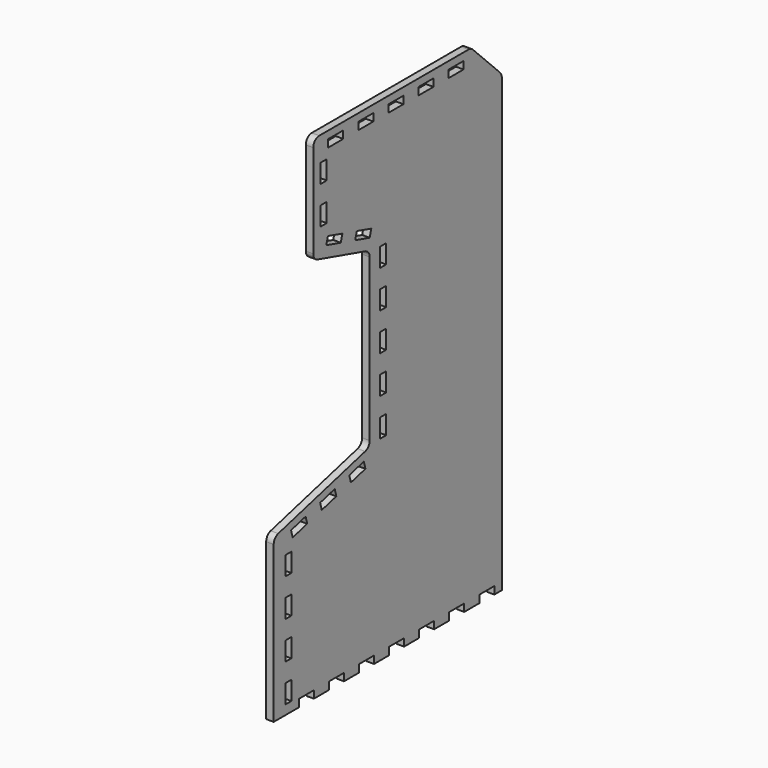
from build123d import *

# Parameters (mm, degrees)
F1_DEPTH  = 4
F2_R      = 4
F3_W      = 4
F3_H      = 10
F4_DEPTH  = 4
F5_W      = 4
F5_H      = 10
F5_W_2    = 10
F5_H_2    = 4
F6_DEPTH  = 4
F8_DEPTH  = 4
F9_R      = 4
F10_W     = 10
F10_H     = 4
F10_W_2   = 4
F10_H_2   = 10
F11_DEPTH = 25
F12_R     = 4


with BuildPart() as f1:
    # F0 (on Right) → F1 (new body)
    with BuildSketch(Plane.YZ):
        Polygon((0, 92.128), (0, 0), (-63.825185854, -16.522066811), (-63.825185854, -102.781066811), (87.919814146, -102.781066811), (87.919814146, 92.128), align=None)
        Polygon((-52.2425177801, -17.65557521), (-42.5616207767, -15.149535863), (-41.5592050378, -19.0218946644), (-51.2401020413, -21.5279340114), align=None, mode=Mode.SUBTRACT)
        Polygon((-32.8807237732, -12.643496516), (-23.1998267698, -10.1374571689), (-22.197411031, -14.0098159703), (-31.8783080344, -16.5158553174), align=None, mode=Mode.SUBTRACT)
        Polygon((-13.5189297663, -7.6314178219), (-3.8380327629, -5.1253784749), (-2.8356170241, -8.9977372763), (-12.5165140275, -11.5037766233), align=None, mode=Mode.SUBTRACT)
    extrude(amount=F1_DEPTH)

    # F2
    f2_edges = [f1.edges().sort_by_distance(p)[0] for p in [
        (2, -63.825186, -16.522067),
    ]]
    fillet(f2_edges, radius=F2_R)

    # F3 (on face) → F4 (cut)
    with BuildSketch(Plane.YZ.offset(4)):
        with Locations((9.0024157388, 86.1276411986)):
            Rectangle(F3_W, F3_H)
        with Locations((9.0024157388, 66.1276411986)):
            Rectangle(F3_W, F3_H)
        with Locations((9.0024157388, 46.1276411986)):
            Rectangle(F3_W, F3_H)
        with Locations((9.0024157388, 26.1276411986)):
            Rectangle(F3_W, F3_H)
        with Locations((9.0024157388, 6.1276411986)):
            Rectangle(F3_W, F3_H)
    extrude(amount=-F4_DEPTH, mode=Mode.SUBTRACT)

    # F5 (on face) → F6 (cut)
    with BuildSketch(Plane.YZ.offset(4)):
        with Locations((-54.080550543, -32.7809536849)):
            Rectangle(F5_W, F5_H)
        with Locations((-54.080550543, -52.7809536849)):
            Rectangle(F5_W, F5_H)
        with Locations((-54.080550543, -72.7809536849)):
            Rectangle(F5_W, F5_H)
        with Locations((-54.080550543, -92.7809536849)):
            Rectangle(F5_W, F5_H)
        with Locations((-2.080550543, -100.781066811)):
            Rectangle(F5_W_2, F5_H_2)
        with Locations((17.919449457, -100.781066811)):
            Rectangle(F5_W_2, F5_H_2)
        with Locations((37.919449457, -100.781066811)):
            Rectangle(F5_W_2, F5_H_2)
        with Locations((-22.080550543, -100.781066811)):
            Rectangle(F5_W_2, F5_H_2)
        with Locations((-42.080550543, -100.781066811)):
            Rectangle(F5_W_2, F5_H_2)
        with Locations((57.919449457, -100.781066811)):
            Rectangle(F5_W_2, F5_H_2)
        with Locations((77.919449457, -100.781066811)):
            Rectangle(F5_W_2, F5_H_2)
    extrude(amount=-F6_DEPTH, mode=Mode.SUBTRACT)

    # F7 (on face) → F8 (join)
    with BuildSketch(Plane.YZ.offset(4)):
        Polygon((-37.5059572495, 102.8192660989), (0, 92.128), (87.919814146, 92.128), (87.919814146, 159.5652660989), (-37.5059572495, 159.5652660989), align=None)
    extrude(amount=-F8_DEPTH)

    # F9
    f9_edges = [f1.edges().sort_by_distance(p)[0] for p in [
        (2, -37.505957, 159.565266),
        (2, 87.919814, 159.565266),
        (2, -37.505957, 102.819266),
    ]]
    fillet(f9_edges, radius=F9_R)

    # F10 (on face) → F11 (cut)
    with BuildSketch(Plane(origin=(0, 0, 0), x_dir=(0, -1, 0), z_dir=(-1, 0, 0))):
        Polygon((-1.0965401127, 101.9704806816), (0, 98.1237158355), (9.6169121153, 100.8650661173), (8.5203720026, 104.7118309634), align=None)
        with Locations((22.5626522907, 153.5652066678)):
            Rectangle(F10_W, F10_H)
        with Locations((30.5626522907, 141.5652066678)):
            Rectangle(F10_W_2, F10_H_2)
        with Locations((30.5626522907, 121.5652066678)):
            Rectangle(F10_W_2, F10_H_2)
        Polygon((18.1372841178, 107.4531812452), (19.2338242305, 103.6064163991), (28.8507363458, 106.3477666808), (27.7541962331, 110.1945315269), align=None)
        with Locations((2.5626522907, 153.5652066678)):
            Rectangle(F10_W, F10_H)
        with Locations((-17.4373477093, 153.5652066678)):
            Rectangle(F10_W, F10_H)
        with Locations((-37.4373477093, 153.5652066678)):
            Rectangle(F10_W, F10_H)
        Polygon((-80.7050293604, 146.2975250167), (-71.4373477093, 155.5652066678), (-67.4372882782, 159.5652660989), (-87.919814146, 159.5652660989), (-87.919814146, 139.0827402311), align=None)
        with Locations((-57.4373477093, 153.5652066678)):
            Rectangle(F10_W, F10_H)
    extrude(amount=-F11_DEPTH, mode=Mode.SUBTRACT)

    # F12
    f12_edges = [f1.edges().sort_by_distance(p)[0] for p in [
        (2, 67.437288, 159.565266),
        (2, 87.919814, 139.08274),
        (2, 0, 92.128),
        (2, 0, 0),
    ]]
    fillet(f12_edges, radius=F12_R)


solid = f1.part
